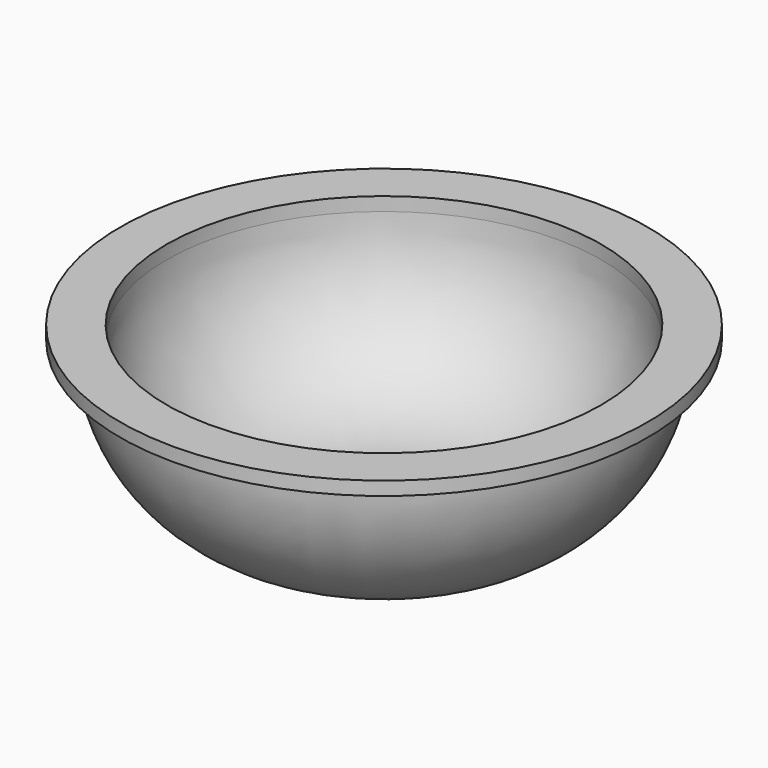
from build123d import *


with BuildPart() as f1:
    # F0 (on Right) → F1 (revolve)
    with BuildSketch(Plane.YZ):
        with BuildLine():
            Line((-19.310446, -9.119444), (-57.410446, -9.119444))
            Line((-57.410446, -9.119444), (-57.410446, -21.819444))
            Line((-57.410446, -21.819444), (-19.310446, -21.819444))
            ThreePointArc((-19.310446, -21.819444), (43.551347, 4.218764), (69.589554, 67.080556))
            Line((69.589554, 67.080556), (81.327197, 67.080556))
            Line((81.327197, 67.080556), (81.327197, 74.207493))
            Line((81.327197, 74.207493), (56.889554, 74.207493))
            Line((56.889554, 74.207493), (56.889554, 67.080556))
            ThreePointArc((56.889554, 67.080556), (34.571091, 13.19902), (-19.310446, -9.119444))
        make_face()
    revolve(axis=Axis((0, -57.410446, 37.590552), (0, 0, 1)))


solid = f1.part
